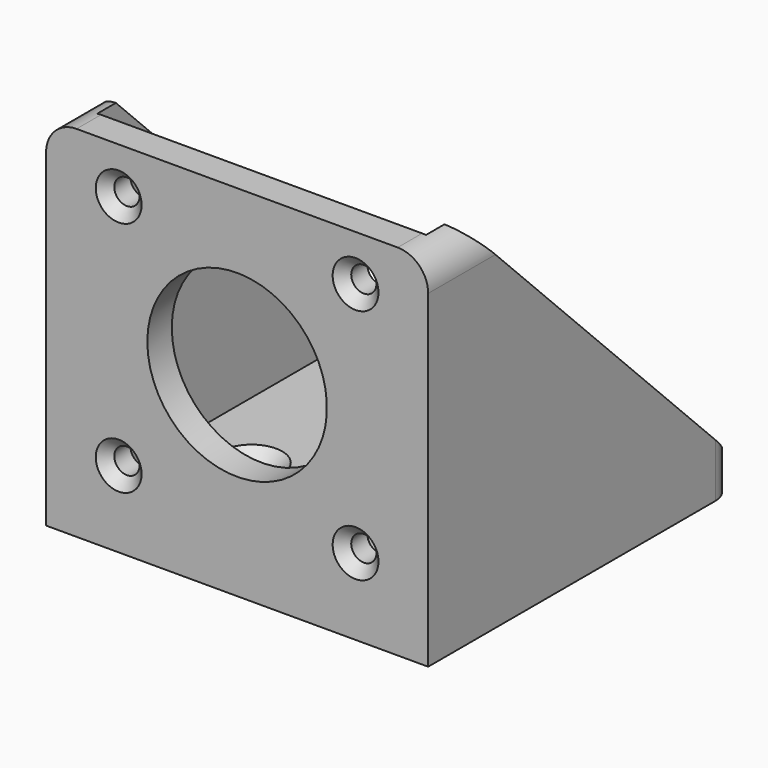
from build123d import *

# Parameters (mm, degrees)
SKETCH_W            = 50
SKETCH_H            = 50
PAD_DEPTH           = 4
SKETCH001_W         = 50
SKETCH001_H         = 4
PAD001_DEPTH        = 43
SKETCH002_R         = 11.75
POCKET_DEPTH        = 4.001
HOLE_D              = 4.4
HOLE_CSINK_D        = 8
HOLE_CSINK_ANGLE    = 90
HOLE001_D           = 3.3
HOLE001_DEPTH       = 24.00858
HOLE001_CSINK_D     = 6
HOLE001_CSINK_ANGLE = 90
HOLE001_TIPS_R      = 1.65
SKETCH005_W         = 4
SKETCH005_H         = 46
PAD002_DEPTH        = 43
CHAMFER_SIZE        = 42.99
FILLET_R            = 3.99
FILLET001_R         = 3
POCKET001_DEPTH     = 0.5
POCKET002_DEPTH     = 0.5


with BuildPart() as part:
    # Sketch → Pad (new body)
    with BuildSketch(Plane.XY):
        Rectangle(SKETCH_W, SKETCH_H)
    extrude(amount=PAD_DEPTH)

    # Sketch001 (on Face6 of Pad) → Pad001 (join)
    with BuildSketch(Plane.XY.offset(4)):
        with Locations((0, -23)):
            Rectangle(SKETCH001_W, SKETCH001_H)
    extrude(amount=PAD001_DEPTH)

    # Sketch002 (on Face9 of Pad001) → Pocket (cut, through all)
    with BuildSketch(Plane(origin=(0, -21, 0), x_dir=(-1, 0, 0), z_dir=(0, 1, 0))):
        with Locations((0, 25.5)):
            Circle(SKETCH002_R)
    extrude(amount=-POCKET_DEPTH, mode=Mode.SUBTRACT)

    # Hole (through all)
    with Locations(Plane.XY.offset(4)):
        with Locations((12.5, -7), (-12.5, -7), (-12.5, 18), (12.5, 18)):
            CounterSinkHole(HOLE_D / 2, HOLE_CSINK_D / 2, counter_sink_angle=HOLE_CSINK_ANGLE)

    # Hole001
    with Locations(Plane.XZ.offset(25)):
        with Locations((-15.5, 41), (15.5, 41), (15.5, 10), (-15.5, 10)):
            CounterSinkHole(HOLE001_D / 2, HOLE001_CSINK_D / 2, depth=HOLE001_DEPTH, counter_sink_angle=HOLE001_CSINK_ANGLE)

    # Hole001 tips → Hole001 tip 1 section 0
    with BuildSketch(Plane.XZ.offset(0.99142), mode=Mode.PRIVATE) as hole001_tip_1_s0:
        with Locations((-15.5, 41)):
            Circle(HOLE001_TIPS_R)
    loft([hole001_tip_1_s0.sketch, Vertex(-15.5, 0, 41)], mode=Mode.SUBTRACT)

    # Hole001 tips → Hole001 tip 2 section 0
    with BuildSketch(Plane.XZ.offset(0.99142), mode=Mode.PRIVATE) as hole001_tip_2_s0:
        with Locations((15.5, 41)):
            Circle(HOLE001_TIPS_R)
    loft([hole001_tip_2_s0.sketch, Vertex(15.5, 0, 41)], mode=Mode.SUBTRACT)

    # Hole001 tips → Hole001 tip 3 section 0
    with BuildSketch(Plane.XZ.offset(0.99142), mode=Mode.PRIVATE) as hole001_tip_3_s0:
        with Locations((15.5, 10)):
            Circle(HOLE001_TIPS_R)
    loft([hole001_tip_3_s0.sketch, Vertex(15.5, 0, 10)], mode=Mode.SUBTRACT)

    # Hole001 tips → Hole001 tip 4 section 0
    with BuildSketch(Plane.XZ.offset(0.99142), mode=Mode.PRIVATE) as hole001_tip_4_s0:
        with Locations((-15.5, 10)):
            Circle(HOLE001_TIPS_R)
    loft([hole001_tip_4_s0.sketch, Vertex(-15.5, 0, 10)], mode=Mode.SUBTRACT)

    # Sketch005 (on Face5 of Hole001) → Pad002 (join)
    with BuildSketch(Plane.XY.offset(4)):
        with Locations((23, 2)):
            Rectangle(SKETCH005_W, SKETCH005_H)
        with Locations((-23, 2)):
            Rectangle(SKETCH005_W, SKETCH005_H)
    extrude(amount=PAD002_DEPTH)

    # Chamfer
    chamfer_edges = [part.edges().sort_by_distance(p)[0] for p in [
        (23, 25, 47),
        (-23, 25, 47),
    ]]
    chamfer(chamfer_edges, length=CHAMFER_SIZE)

    # Fillet
    fillet_edges = [part.edges().sort_by_distance(p)[0] for p in [
        (25, -23, 47),
        (-25, -23, 47),
    ]]
    fillet(fillet_edges, radius=FILLET_R)

    # Fillet001
    fillet001_edges = [part.edges().sort_by_distance(p)[0] for p in [
        (25, 25, 2),
        (-25, 25, 2),
    ]]
    fillet(fillet001_edges, radius=FILLET001_R)

    # Fillet001 Face9 → Pocket001 (cut)
    with BuildSketch(Plane(origin=(-21, -5.601727, 19.213451), x_dir=(0, -1, 0), z_dir=(1, 0, 0))):
        Polygon((-30.601727, 15.213451), (-30.601727, 15.203451), (12.388273, -27.786549), (15.398273, -27.786549), (15.398273, 15.213451), align=None)
    extrude(amount=-POCKET001_DEPTH, mode=Mode.SUBTRACT)

    # Pocket001 Face46 → Pocket002 (cut)
    with BuildSketch(Plane(origin=(21, -5.601727, 19.213451), x_dir=(0, 1, 0), z_dir=(-1, 0, 0))):
        Polygon((30.601727, 15.203451), (30.601727, 15.213451), (-15.398273, 15.213451), (-15.398273, -27.786549), (-12.388273, -27.786549), align=None)
    extrude(amount=-POCKET002_DEPTH, mode=Mode.SUBTRACT)


solid = part.part
